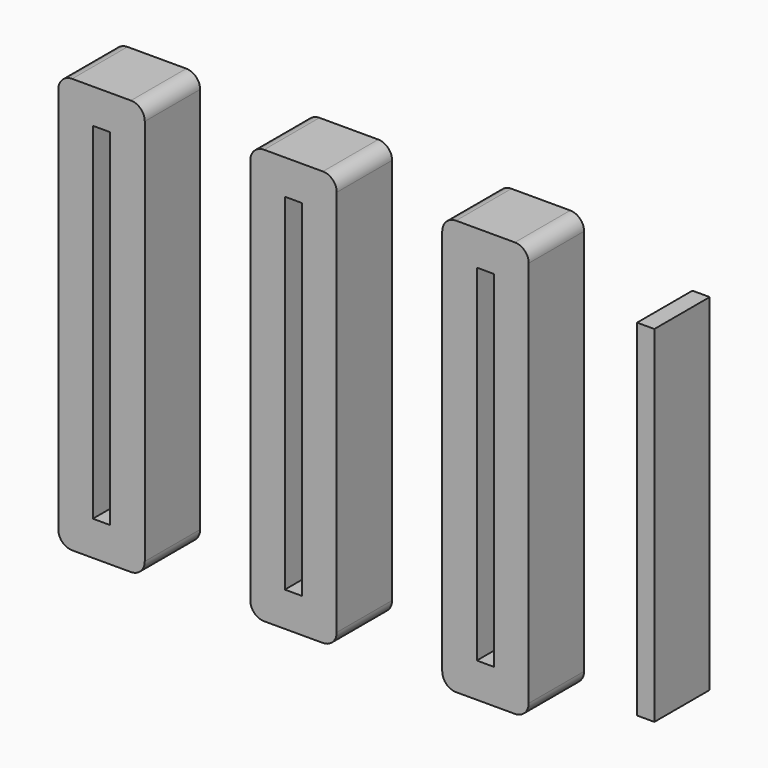
from build123d import *

# Parameters (mm, degrees)
F1_W     = 31.75
F1_H     = 152.4
F2_DEPTH = 25.4
F0_W     = 6.35
F0_H     = 127
F3_DEPTH = 25.4
F4_R     = 5.08
F5_W     = 6.35
F5_H     = 127
F6_DEPTH = 25.4


with BuildPart() as f2:
    # F1 (on Front) → F2 (new body)
    with BuildSketch(Plane.XZ):
        with Locations((-42.432474, 10.3945)):
            Rectangle(F1_W, F1_H)
    extrude(amount=F2_DEPTH)

    # F0 (on Front) → F3 (cut)
    with BuildSketch(Plane.XZ):
        with Locations((-42.432474, 10.3945)):
            Rectangle(F0_W, F0_H)
    extrude(amount=F3_DEPTH, mode=Mode.SUBTRACT)

    # F4
    f4_edges = [f2.edges().sort_by_distance(p)[0] for p in [
        (-26.557474, -12.7, 86.5945),
        (-58.307474, -12.7, 86.5945),
        (-58.307474, -12.7, -65.8055),
        (-26.557474, -12.7, -65.8055),
    ]]
    fillet(f4_edges, radius=F4_R)


with BuildPart() as f6:
    # F5 (on Front) → F6 (new body)
    with BuildSketch(Plane.XZ):
        with Locations((16.403343, 11.750892)):
            Rectangle(F5_W, F5_H)
    extrude(amount=F6_DEPTH)


with BuildPart() as f7_1:
    # F7: copy of F2
    add(f2.part.moved(Location((-70.485, 0, 0))))


with BuildPart() as f8_1:
    # F8: copy of F7_1
    add(f7_1.part.moved(Location((-70.485, 0, 0))))


solid = Compound([f2.part, f6.part, f7_1.part, f8_1.part])
